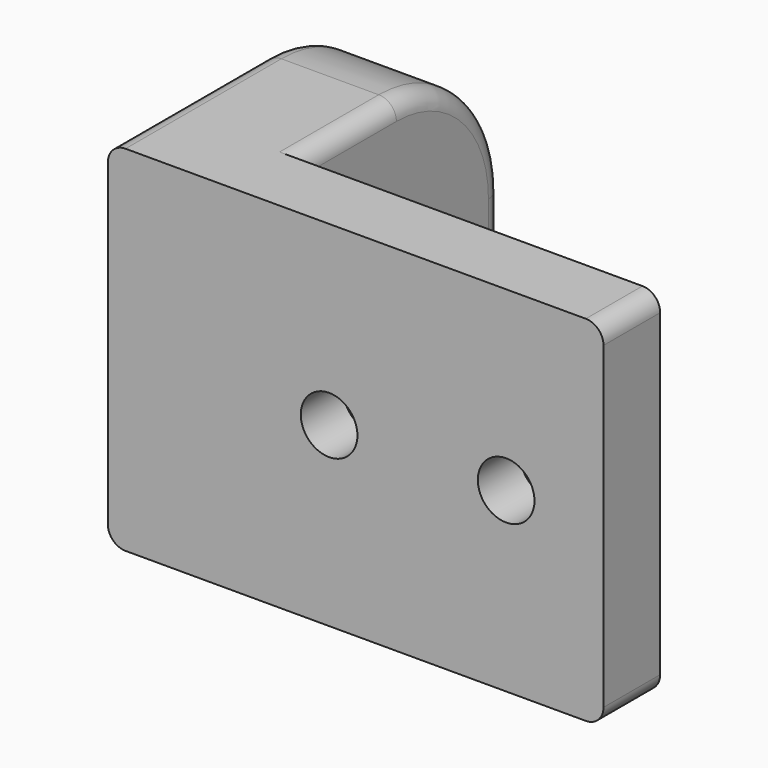
from build123d import *

# Parameters (mm, degrees)
CYLINDER005_R     = 4
CYLINDER005_DEPTH = 81
BOX010_W          = 15
BOX010_H          = 37
BOX010_DEPTH      = 40
FILLET012008_R    = 15
FILLET012010_R    = 2
CYLINDER009_R     = 3.2
CYLINDER009_DEPTH = 10
CYLINDER014_R     = 3.2
CYLINDER014_DEPTH = 10
CYLINDER013_R     = 7.5
CYLINDER013_DEPTH = 2
CYLINDER012_R     = 7.5
CYLINDER012_DEPTH = 2
BOX012_W          = 56
BOX012_H          = 8
BOX012_DEPTH      = 40
FILLET012009_R    = 2


with BuildPart() as cylinder005:
    # Cylinder005 → Cylinder005 (new body)
    with BuildSketch(Plane(origin=(43, -52, 20), x_dir=(0, 0, 1), z_dir=(-1, 0, 0))):
        Circle(CYLINDER005_R)
    extrude(amount=CYLINDER005_DEPTH)


with BuildPart() as fillet012010:
    # Box010 → Box010 (new body)
    with BuildSketch(Plane(origin=(15, -74, 0), x_dir=(1, 0, 0), z_dir=(0, 0, 1))):
        with Locations((7.5, 18.5)):
            Rectangle(BOX010_W, BOX010_H)
    extrude(amount=BOX010_DEPTH)

    # Cut021: cut Cylinder005
    add(cylinder005.part, mode=Mode.SUBTRACT)

    # Fillet012008
    fillet012008_edges = [fillet012010.edges().sort_by_distance(p)[0] for p in [
        (22.5, -37, 40),
        (22.5, -37, 0),
    ]]
    fillet(fillet012008_edges, radius=FILLET012008_R)

    # Fillet012010
    fillet012010_edges = [fillet012010.edges().sort_by_distance(p)[0] for p in [
        (15, -63, 40),
        (15, -41.393398, 35.606602),
        (15, -37, 20),
        (15, -63, 0),
        (15, -41.393398, 4.393398),
        (30, -63, 40),
        (30, -41.393398, 35.606602),
        (30, -37, 20),
        (30, -63, 0),
        (30, -41.393398, 4.393398),
    ]]
    fillet(fillet012010_edges, radius=FILLET012010_R)


with BuildPart() as cylinder009:
    # Cylinder009 → Cylinder009 (new body)
    with BuildSketch(Plane(origin=(40, -64, 20), x_dir=(1, 0, 0), z_dir=(0, -1, 0))):
        Circle(CYLINDER009_R)
    extrude(amount=CYLINDER009_DEPTH)


with BuildPart() as cylinder014:
    # Cylinder014 → Cylinder014 (new body)
    with BuildSketch(Plane(origin=(60, -64, 20), x_dir=(1, 0, 0), z_dir=(0, -1, 0))):
        Circle(CYLINDER014_R)
    extrude(amount=CYLINDER014_DEPTH)


with BuildPart() as cylinder013:
    # Cylinder013 → Cylinder013 (new body)
    with BuildSketch(Plane(origin=(60, -66, 20), x_dir=(1, 0, 0), z_dir=(0, -1, 0))):
        Circle(CYLINDER013_R)
    extrude(amount=CYLINDER013_DEPTH)


with BuildPart() as fusion008:
    # Cylinder012 → Cylinder012 (new body)
    with BuildSketch(Plane(origin=(40, -66, 20), x_dir=(1, 0, 0), z_dir=(0, -1, 0))):
        Circle(CYLINDER012_R)
    extrude(amount=CYLINDER012_DEPTH)

    # Fusion008: union Cylinder009, Cylinder014, Cylinder013
    add(cylinder009.part)
    add(cylinder014.part)
    add(cylinder013.part)


with BuildPart() as fusion009:
    # Box012 → Box012 (new body)
    with BuildSketch(Plane(origin=(15, -74, 0), x_dir=(1, 0, 0), z_dir=(0, 0, 1))):
        with Locations((28, 4)):
            Rectangle(BOX012_W, BOX012_H)
    extrude(amount=BOX012_DEPTH)

    # Cut020: cut Fusion008
    add(fusion008.part, mode=Mode.SUBTRACT)

    # Fillet012009
    fillet012009_edges = [fusion009.edges().sort_by_distance(p)[0] for p in [
        (15, -70, 40),
        (15, -70, 0),
        (71, -70, 40),
        (71, -70, 0),
    ]]
    fillet(fillet012009_edges, radius=FILLET012009_R)

    # Fusion009: union Fillet012010
    add(fillet012010.part)


solid = fusion009.part
